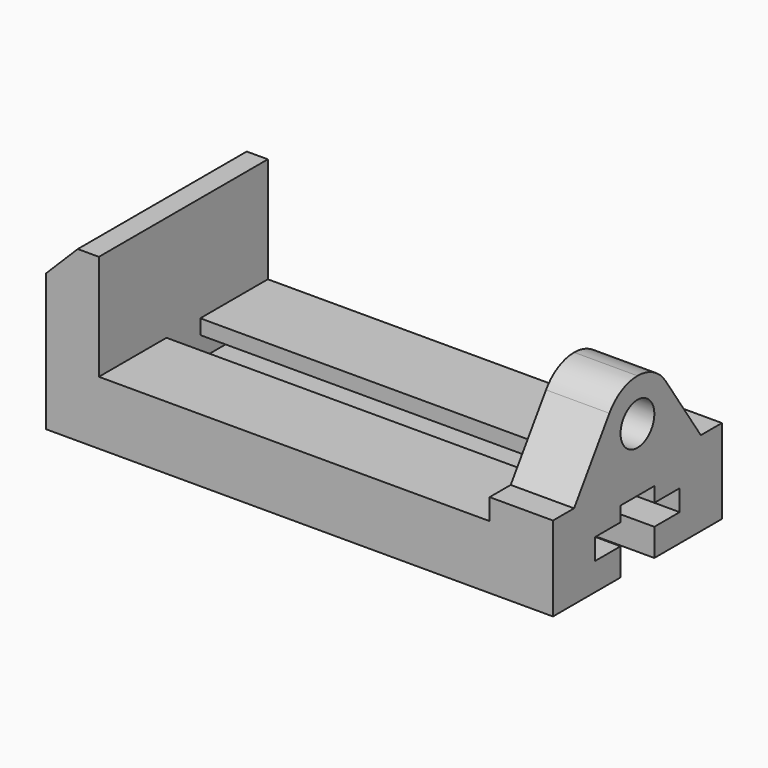
from build123d import *

# Parameters (mm, degrees)
F1_DEPTH = 127
F2_SIZE2 = 19.05
F2_SIZE  = 19.05
F4_DEPTH = 38.1
F5_R     = 12.7
F6_DEPTH = 38.1
F8_DEPTH = 273.05


with BuildPart() as f1:
    # F0 (on Front) → F1 (new body)
    with BuildSketch(Plane.XZ):
        Polygon((0, 101.6), (0, 0), (304.8, 0), (304.8, 101.6), (266.7, 101.6), (266.7, 38.1), (31.75, 38.1), (31.75, 101.6), align=None)
    extrude(amount=-F1_DEPTH)

    # F2
    f2_edges = [f1.edges().sort_by_distance(p)[0] for p in [
        (0, 63.5, 101.6),
    ]]
    chamfer(f2_edges, length=F2_SIZE, length2=F2_SIZE2)

    # F3 (on face) → F4 (cut)
    with BuildSketch(Plane.YZ.offset(304.8)):
        with BuildLine():
            Line((0, 101.6), (0, 50.8))
            Line((0, 50.8), (15.875, 50.8))
            Line((15.875, 50.8), (42.406574, 90.350173))
            ThreePointArc((42.406574, 90.350173), (51.547059, 98.611765), (63.5, 101.6))
            Line((63.5, 101.6), (0, 101.6))
        make_face()
        with BuildLine():
            Line((127, 101.6), (63.5, 101.6))
            ThreePointArc((63.5, 101.6), (75.452941, 98.611765), (84.593426, 90.350173))
            Line((84.593426, 90.350173), (111.125, 50.8))
            Line((111.125, 50.8), (127, 50.8))
            Line((127, 50.8), (127, 101.6))
        make_face()
    extrude(amount=-F4_DEPTH, mode=Mode.SUBTRACT)

    # F5 (on face) → F6 (cut)
    with BuildSketch(Plane.YZ.offset(304.8)):
        with Locations((63.5, 76.2)):
            Circle(F5_R)
    extrude(amount=-F6_DEPTH, mode=Mode.SUBTRACT)

    # F7 (on face) → F8 (cut)
    with BuildSketch(Plane.YZ.offset(304.8)):
        Polygon((50.8, 16.51), (50.8, 0), (76.2, 0), (76.2, 16.51), (95.25, 16.51), (95.25, 29.21), (76.2, 29.21), (76.2, 38.1), (50.8, 38.1), (50.8, 29.21), (31.75, 29.21), (31.75, 16.51), align=None)
    extrude(amount=-F8_DEPTH, mode=Mode.SUBTRACT)


solid = f1.part
